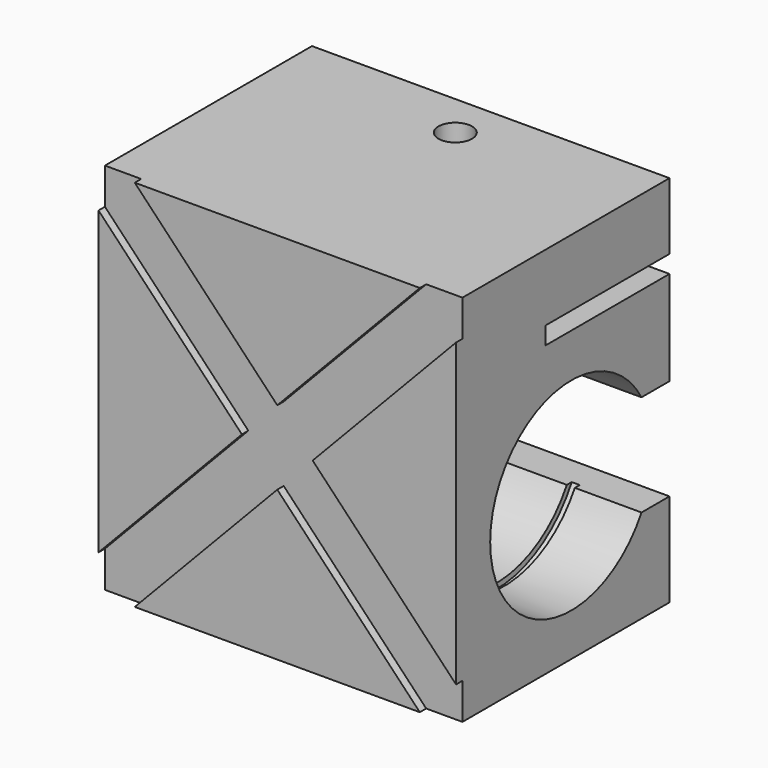
from build123d import *

# Parameters (mm, degrees)
F0_W      = 67
F0_H      = 70
F1_DEPTH  = 50
F3_DEPTH  = 1.5
F4_R      = 19
F5_DEPTH  = 67.001
F7_W      = 29
F7_H      = 3.3
F8_DEPTH  = 67.001
F6_R      = 3.15
F9_DEPTH  = 12.5
F11_R     = 20
F12_DEPTH = 1.5
F14_R     = 20
F15_DEPTH = 1.5
F17_DEPTH = 67.001


with BuildPart() as f1:
    # F0 (on Front) → F1 (new body)
    with BuildSketch(Plane.XZ):
        with Locations((-33.5, 35)):
            Rectangle(F0_W, F0_H)
    extrude(amount=-F1_DEPTH)

    # F2 (on face) → F3 (cut)
    with BuildSketch(Plane.XZ):
        Polygon((-67, 6.7902302028), (-67, 0), (-60.2097697972, 0), (-33.5, 28.0406054683), (-6.7902302028, 0), (0, 0), (0, 6.7902302028), (-26.870905415, 35), (0, 63.2097697972), (0, 70), (-6.7902302028, 70), (-33.5, 41.9593945317), (-60.2097697972, 70), (-67, 70), (-67, 63.2097697972), (-40.129094585, 35), align=None)
    extrude(amount=-F3_DEPTH, mode=Mode.SUBTRACT)

    # F4 (on face) → F5 (cut, through all)
    with BuildSketch(Plane.YZ):
        with Locations((27, 27)):
            Circle(F4_R)
    extrude(amount=-F5_DEPTH, mode=Mode.SUBTRACT)

    # F7 (on face) → F8 (cut, through all)
    with BuildSketch(Plane.YZ):
        with Locations((35.5, 55.85)):
            Rectangle(F7_W, F7_H)
    extrude(amount=-F8_DEPTH, mode=Mode.SUBTRACT)

    # F6 (on face) → F9 (cut, through all)
    with BuildSketch(Plane.XY.offset(70)):
        with Locations((-33.5, 41.7)):
            Circle(F6_R)
    extrude(amount=-F9_DEPTH, mode=Mode.SUBTRACT)

    # F11 (on offset) → F12 (cut)
    with BuildSketch(Plane.YZ.offset(-12.5)):
        with Locations((27, 27)):
            Circle(F11_R)
    extrude(amount=-F12_DEPTH, mode=Mode.SUBTRACT)

    # F14 (on offset) → F15 (cut)
    with BuildSketch(Plane(origin=(-54.5, 0, 0), x_dir=(0, -1, 0), z_dir=(-1, 0, 0))):
        with Locations((-27, 27)):
            Circle(F14_R)
    extrude(amount=F15_DEPTH, mode=Mode.SUBTRACT)

    # F16 (on face) → F17 (cut, through all)
    with BuildSketch(Plane(origin=(-67, 0, 0), x_dir=(0, -1, 0), z_dir=(-1, 0, 0))):
        with BuildLine():
            Line((-43.4544826719, 36.5), (-50, 36.5))
            Line((-50, 36.5), (-50, 17.5))
            Line((-50, 17.5), (-43.4544826719, 17.5))
            ThreePointArc((-43.4544826719, 17.5), (-46, 27), (-43.4544826719, 36.5))
        make_face()
    extrude(amount=-F17_DEPTH, mode=Mode.SUBTRACT)


solid = f1.part
